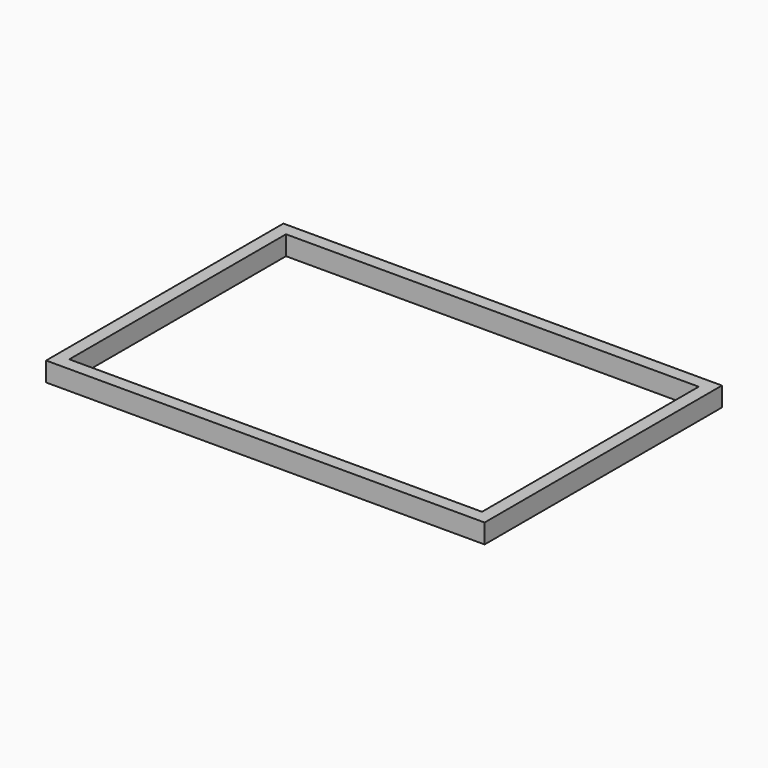
from build123d import *

# Parameters (mm, degrees)
BOX053_W     = 10
BOX053_H     = 210
BOX053_DEPTH = 15
BOX052_W     = 340
BOX052_H     = 10
BOX052_DEPTH = 15
BOX054_W     = 10
BOX054_H     = 210
BOX054_DEPTH = 15
BOX055_W     = 340
BOX055_H     = 10
BOX055_DEPTH = 15


with BuildPart() as cubo016:
    # Box053 → Box053 (new body)
    with BuildSketch(Plane(origin=(330, 259, 0), x_dir=(1, 0, 0), z_dir=(0, 0, 1))):
        with Locations((5, 105)):
            Rectangle(BOX053_W, BOX053_H)
    extrude(amount=BOX053_DEPTH)


with BuildPart() as cubo015:
    # Box052 → Box052 (new body)
    with BuildSketch(Plane(origin=(0, 249, 0), x_dir=(1, 0, 0), z_dir=(0, 0, 1))):
        with Locations((170, 5)):
            Rectangle(BOX052_W, BOX052_H)
    extrude(amount=BOX052_DEPTH)


with BuildPart() as cubo017:
    # Box054 → Box054 (new body)
    with BuildSketch(Plane(origin=(0, 259, 0), x_dir=(1, 0, 0), z_dir=(0, 0, 1))):
        with Locations((5, 105)):
            Rectangle(BOX054_W, BOX054_H)
    extrude(amount=BOX054_DEPTH)


with BuildPart() as obj1:
    # Box055 → Box055 (new body)
    with BuildSketch(Plane(origin=(0, 469, 0), x_dir=(1, 0, 0), z_dir=(0, 0, 1))):
        with Locations((170, 5)):
            Rectangle(BOX055_W, BOX055_H)
    extrude(amount=BOX055_DEPTH)

    # Fusion006: union Cubo016, Cubo015, Cubo017
    add(cubo016.part)
    add(cubo015.part)
    add(cubo017.part)


solid = obj1.part
